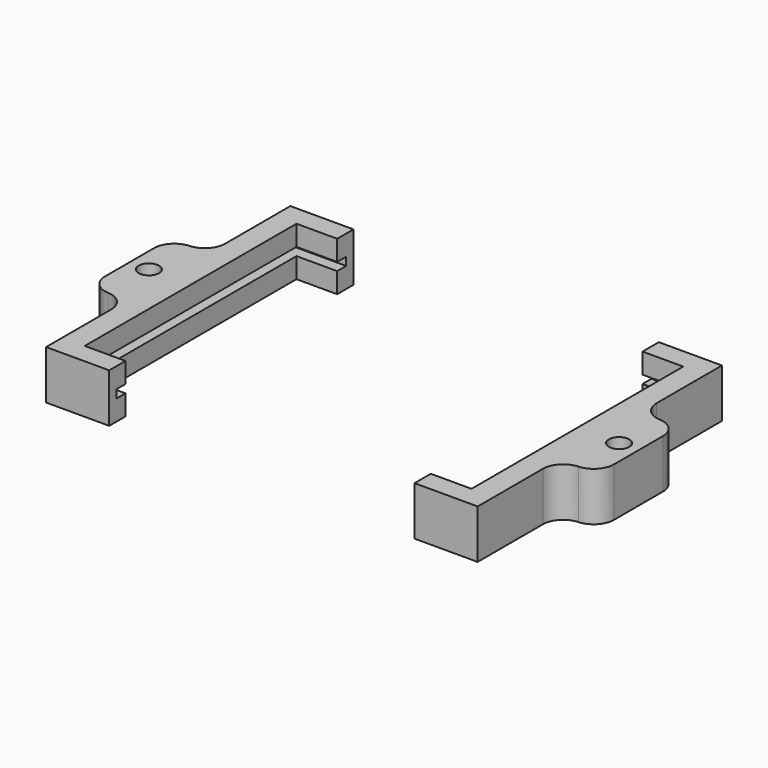
from build123d import *

# Parameters (mm, degrees)
F1_DEPTH = 5
F0_R     = 2.5
F2_DEPTH = 7
F3_START = 7
F3_DEPTH = 5
F4_R     = 5
F4_2_R   = 5
F5_R     = 5
F5_2_R   = 5


with BuildPart() as f1:
    # F0 (on Top) → F1 (new body)
    with BuildSketch(Plane.XY):
        Polygon((-37.5, 35.25), (-50.5, 35.25), (-50.5, -35.25), (-37.5, -35.25), (-37.5, -32.5), (-47.5, -32.5), (-47.5, 32.5), (-37.5, 32.5), align=None)
    extrude(amount=F1_DEPTH)

    # F0 (on Top) → F2 (join)
    with BuildSketch(Plane.XY):
        Polygon((-50.5, -35.25), (-50.5, 35.25), (-37.5, 35.25), (-37.5, 37.5), (-53, 37.5), (-53, 12.5), (-62.5, 12.5), (-62.5, -12.5), (-53, -12.5), (-53, -37.5), (-37.5, -37.5), (-37.5, -35.25), align=None)
        with Locations((-57.75, 0)):
            Circle(F0_R, mode=Mode.SUBTRACT)
    extrude(amount=F2_DEPTH)

    # F0 (on Top) → F3 (join)
    with BuildSketch(Plane.XY.offset(F3_START)):
        Polygon((-50.5, -35.25), (-50.5, 35.25), (-37.5, 35.25), (-37.5, 37.5), (-53, 37.5), (-53, 12.5), (-62.5, 12.5), (-62.5, -12.5), (-53, -12.5), (-53, -37.5), (-37.5, -37.5), (-37.5, -35.25), align=None)
        with Locations((-57.75, 0)):
            Circle(F0_R, mode=Mode.SUBTRACT)
        Polygon((-37.5, 35.25), (-50.5, 35.25), (-50.5, -35.25), (-37.5, -35.25), (-37.5, -32.5), (-47.5, -32.5), (-47.5, 32.5), (-37.5, 32.5), align=None)
    extrude(amount=F3_DEPTH)

    # F4
    f4_edges = [f1.edges().sort_by_distance(p)[0] for p in [
        (-62.5, -12.5, 6),
        (-62.5, 12.5, 6),
    ]]
    fillet(f4_edges, radius=F4_R)

    # F5
    f5_edges = [f1.edges().sort_by_distance(p)[0] for p in [
        (-53, 12.5, 6),
        (-53, -12.5, 6),
    ]]
    fillet(f5_edges, radius=F5_R)


with BuildPart() as f1b:
    # F0 (on Top) → F1, piece 2 (new body)
    with BuildSketch(Plane.XY):
        Polygon((50.5, -35.25), (50.5, 35.25), (37.5, 35.25), (37.5, 32.5), (47.5, 32.5), (47.5, -32.5), (37.5, -32.5), (37.5, -35.25), align=None)
    extrude(amount=F1_DEPTH)

    # F0 (on Top) → F2, piece 2 (join)
    with BuildSketch(Plane.XY):
        Polygon((37.5, 35.25), (50.5, 35.25), (50.5, -35.25), (37.5, -35.25), (37.5, -37.5), (53, -37.5), (53, -12.5), (62.5, -12.5), (62.5, 12.5), (53, 12.5), (53, 37.5), (37.5, 37.5), align=None)
        with Locations((57.75, 0)):
            Circle(F0_R, mode=Mode.SUBTRACT)
    extrude(amount=F2_DEPTH)

    # F0 (on Top) → F3, piece 2 (join)
    with BuildSketch(Plane.XY.offset(F3_START)):
        Polygon((37.5, 35.25), (50.5, 35.25), (50.5, -35.25), (37.5, -35.25), (37.5, -37.5), (53, -37.5), (53, -12.5), (62.5, -12.5), (62.5, 12.5), (53, 12.5), (53, 37.5), (37.5, 37.5), align=None)
        with Locations((57.75, 0)):
            Circle(F0_R, mode=Mode.SUBTRACT)
        Polygon((50.5, -35.25), (50.5, 35.25), (37.5, 35.25), (37.5, 32.5), (47.5, 32.5), (47.5, -32.5), (37.5, -32.5), (37.5, -35.25), align=None)
    extrude(amount=F3_DEPTH)

    # F4#2
    f4_2_edges = [f1b.edges().sort_by_distance(p)[0] for p in [
        (62.5, -12.5, 6),
        (62.5, 12.5, 6),
    ]]
    fillet(f4_2_edges, radius=F4_2_R)

    # F5#2
    f5_2_edges = [f1b.edges().sort_by_distance(p)[0] for p in [
        (53, 12.5, 6),
        (53, -12.5, 6),
    ]]
    fillet(f5_2_edges, radius=F5_2_R)


solid = Compound([f1.part, f1b.part])
